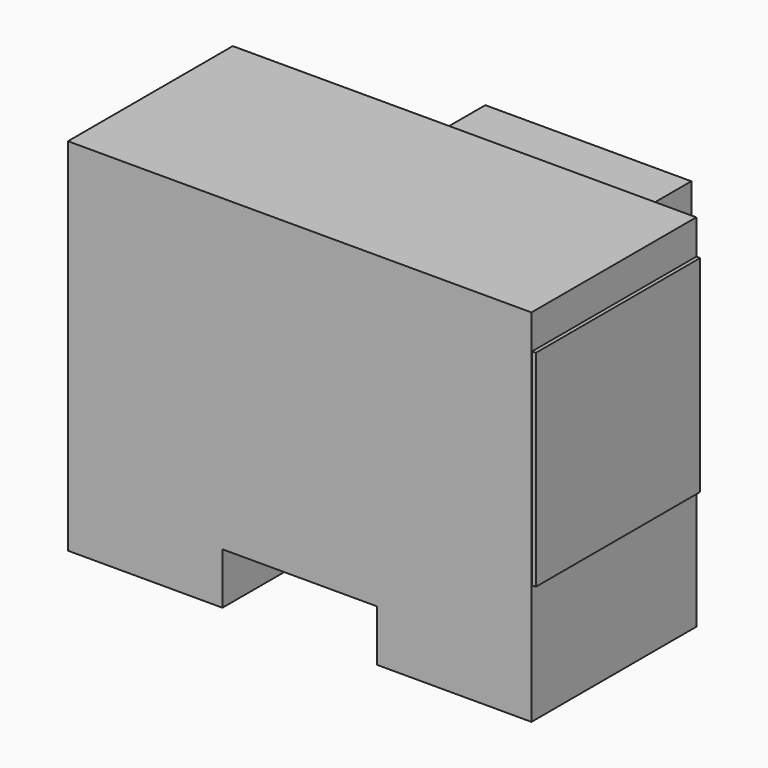
from build123d import *

# Parameters (mm, degrees)
F1_DEPTH = 50.8
F2_W     = 12.071142
F2_H     = 88.9
F3_DEPTH = 50.8
F4_W     = 114.3
F4_H     = 50.605938
F5_DEPTH = 50.8


with BuildPart() as f1:
    # F0 (on Front) → F1 (new body)
    with BuildSketch(Plane.XZ):
        Polygon((61.682204, 59.341179), (-52.617796, 59.341179), (-52.617796, -29.558821), (-14.517796, -29.558821), (-14.517796, -16.858821), (23.582204, -16.858821), (23.582204, -29.558821), (61.682204, -29.558821), align=None)
    extrude(amount=F1_DEPTH)

    # F2 (on Right) → F3 (join)
    with BuildSketch(Plane.YZ):
        with Locations((6.035571, 14.272146)):
            Rectangle(F2_W, F2_H)
    extrude(amount=F3_DEPTH)

    # F4 (on Top) → F5 (join)
    with BuildSketch(Plane.XY):
        with Locations((5.460755, -25.302969)):
            Rectangle(F4_W, F4_H)
    extrude(amount=F5_DEPTH)


solid = f1.part
